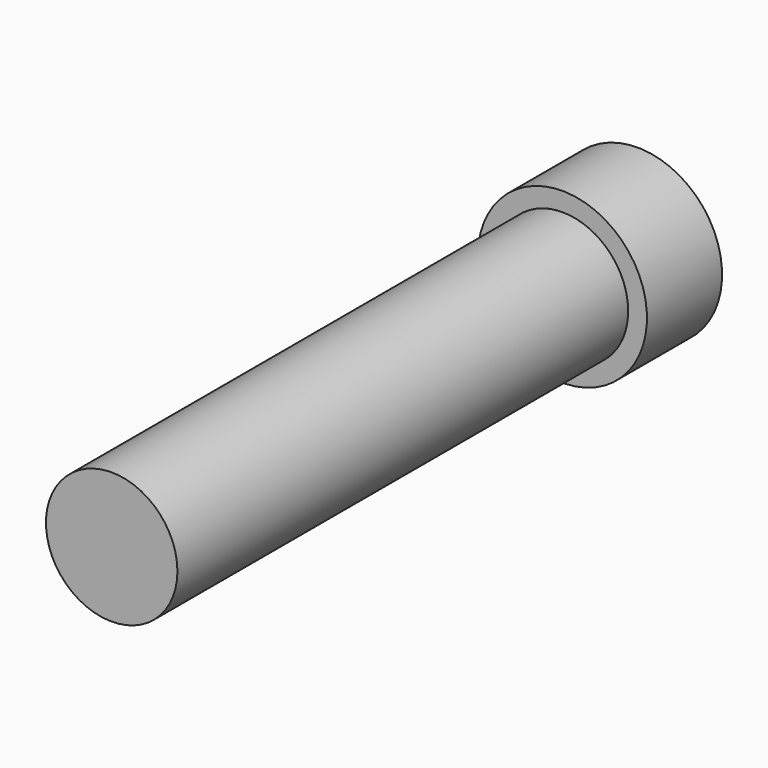
from build123d import *

# Parameters (mm, degrees)
F0_R     = 3.5
F1_DEPTH = 30
F2_R     = 4.5
F2_R_2   = 3.5
F3_DEPTH = 5


with BuildPart() as f1:
    # F0 (on Front) → F1 (new body)
    with BuildSketch(Plane.XZ):
        Circle(F0_R)
    extrude(amount=F1_DEPTH)


with BuildPart() as f3:
    # F2 (on face) → F3 (new body)
    with BuildSketch(Plane(origin=(0, 0, 0), x_dir=(-1, 0, 0), z_dir=(0, 1, 0))):
        Circle(F2_R)
        Circle(F2_R_2, mode=Mode.SUBTRACT)
    extrude(amount=F3_DEPTH)


solid = Compound([f1.part, f3.part])
